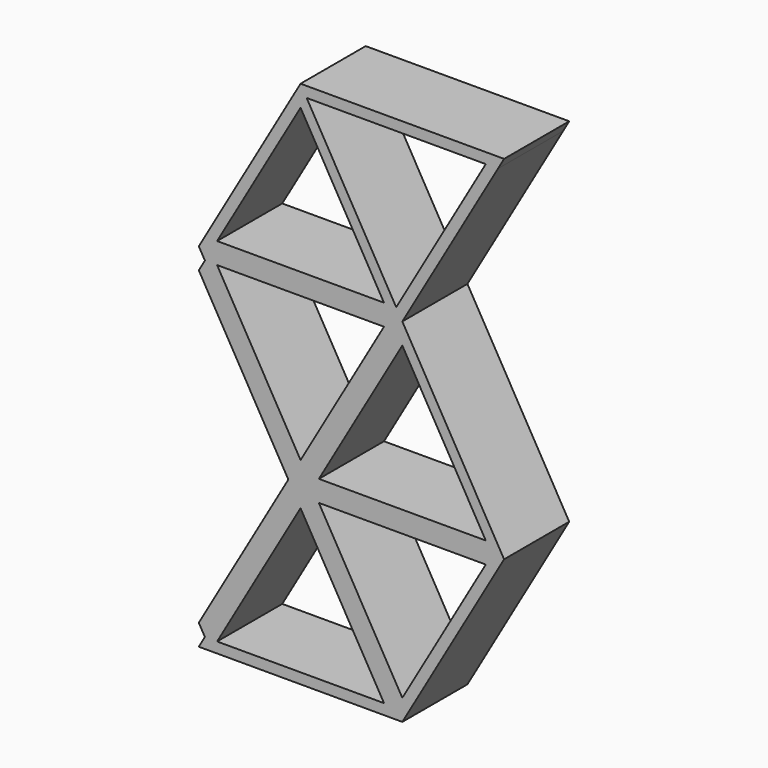
from build123d import *

# Parameters (mm, degrees)
F1_DEPTH = 25.4


with BuildPart() as f1:
    # F0 (on Front) → F1 (new body)
    with BuildSketch(Plane.XZ):
        Polygon((33.655, 161.6782826325), (89.535, 161.6782826325), (91.44, 164.9778394209), (35.56, 164.9778394209), align=None)
        Polygon((89.535, 161.6782826325), (93.345, 161.6782826325), (95.25, 164.9778394209), (91.44, 164.9778394209), align=None)
        Polygon((61.595, 113.284783069), (63.5, 109.9852262806), (93.345, 161.6782826325), (89.535, 161.6782826325), align=None)
        Polygon((31.75, 164.9778394209), (33.655, 161.6782826325), (35.56, 164.9778394209), align=None)
        Polygon((33.655, 161.6782826325), (29.845, 161.6782826325), (31.75, 158.3787258441), align=None)
        Polygon((31.75, 164.9778394209), (29.845, 161.6782826325), (33.655, 161.6782826325), align=None)
        Polygon((57.785, 113.284783069), (61.595, 113.284783069), (33.655, 161.6782826325), (31.75, 158.3787258441), align=None)
        Polygon((29.845, 161.6782826325), (1.905, 113.284783069), (5.715, 113.284783069), (31.75, 158.3787258441), align=None)
        Polygon((1.905, 113.284783069), (0, 109.9852262806), (63.5, 109.9852262806), (61.595, 113.284783069), (57.785, 113.284783069), (5.715, 113.284783069), align=None)
        Polygon((63.5, 109.9852262806), (0, 109.9852262806), (1.905, 106.6856694922), (5.715, 106.6856694922), (57.785, 106.6856694922), (61.595, 106.6856694922), align=None)
        Polygon((5.715, 106.6856694922), (1.905, 106.6856694922), (29.845, 58.2921699287), (31.75, 61.5917267171), align=None)
        Polygon((33.655, 58.2921699287), (61.595, 106.6856694922), (57.785, 106.6856694922), (31.75, 61.5917267171), align=None)
        Polygon((31.75, 61.5917267171), (29.845, 58.2921699287), (33.655, 58.2921699287), align=None)
        Polygon((33.655, 58.2921699287), (31.75, 54.9926131403), (35.56, 54.9926131403), align=None)
        Polygon((29.845, 58.2921699287), (31.75, 54.9926131403), (33.655, 58.2921699287), align=None)
        Polygon((63.5, 103.3861127038), (61.595, 106.6856694922), (33.655, 58.2921699287), (37.465, 58.2921699287), align=None)
        Polygon((91.44, 54.9926131403), (95.25, 54.9926131403), (63.5, 109.9852262806), (61.595, 106.6856694922), (63.5, 103.3861127038), (89.535, 58.2921699287), align=None)
        Polygon((89.535, 51.6930563519), (91.44, 54.9926131403), (35.56, 54.9926131403), (37.465, 51.6930563519), align=None)
        Polygon((61.595, 3.2995567884), (63.5, 0), (95.25, 54.9926131403), (91.44, 54.9926131403), (89.535, 51.6930563519), (63.5, 6.5991135768), align=None)
        Polygon((1.905, 3.2995567884), (0, 0), (63.5, 0), (61.595, 3.2995567884), (57.785, 3.2995567884), (5.715, 3.2995567884), align=None)
        Polygon((29.845, 51.6930563519), (1.905, 3.2995567884), (5.715, 3.2995567884), (31.75, 48.3934995635), align=None)
        Polygon((33.655, 51.6930563519), (29.845, 51.6930563519), (31.75, 48.3934995635), align=None)
        Polygon((31.75, 54.9926131403), (29.845, 51.6930563519), (33.655, 51.6930563519), align=None)
        Polygon((31.75, 54.9926131403), (33.655, 51.6930563519), (35.56, 54.9926131403), align=None)
        Polygon((33.655, 51.6930563519), (61.595, 3.2995567884), (63.5, 6.5991135768), (37.465, 51.6930563519), align=None)
        Polygon((57.785, 3.2995567884), (61.595, 3.2995567884), (33.655, 51.6930563519), (31.75, 48.3934995635), align=None)
        Polygon((35.56, 54.9926131403), (33.655, 51.6930563519), (37.465, 51.6930563519), align=None)
        Polygon((35.56, 54.9926131403), (91.44, 54.9926131403), (89.535, 58.2921699287), (37.465, 58.2921699287), align=None)
        Polygon((33.655, 58.2921699287), (35.56, 54.9926131403), (37.465, 58.2921699287), align=None)
        Polygon((0, 6.5991135768), (1.905, 3.2995567884), (29.845, 51.6930563519), (26.035, 51.6930563519), align=None)
        Polygon((26.035, 51.6930563519), (29.845, 51.6930563519), (27.94, 54.9926131403), align=None)
        Polygon((27.94, 54.9926131403), (29.845, 51.6930563519), (31.75, 54.9926131403), align=None)
        Polygon((29.845, 58.2921699287), (27.94, 54.9926131403), (31.75, 54.9926131403), align=None)
        Polygon((26.035, 58.2921699287), (27.94, 54.9926131403), (29.845, 58.2921699287), align=None)
        Polygon((29.845, 58.2921699287), (1.905, 106.6856694922), (0, 103.3861127038), (26.035, 58.2921699287), align=None)
    extrude(amount=F1_DEPTH)


solid = f1.part
